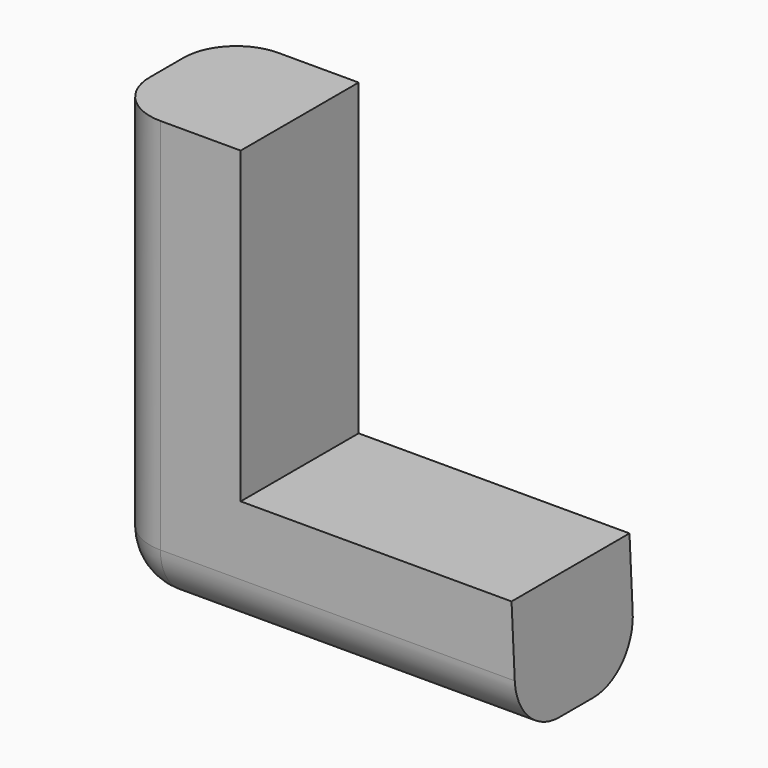
from build123d import *

# Parameters (mm, degrees)
F1_DEPTH = 7.112
F2_R     = 2.54
F3_R     = 2.54


with BuildPart() as f1:
    # F0 (on Front) → F1 (new body)
    with BuildSketch(Plane.XZ):
        Polygon((-28.863836, -17.969469), (-9.111056, -17.969469), (-9.385372, -12.106972), (-22.452589, -12.106972), (-22.452589, 2.791757), (-28.863836, 2.791757), align=None)
    extrude(amount=F1_DEPTH)

    # F2
    f2_edges = [f1.edges().sort_by_distance(p)[0] for p in [
        (-28.863836, -7.112, -7.588856),
    ]]
    fillet(f2_edges, radius=F2_R)

    # F3
    f3_edges = [f1.edges().sort_by_distance(p)[0] for p in [
        (-28.863836, 0, -7.588856),
        (-18.987446, 0, -17.969469),
        (-17.717446, -7.112, -17.969469),
    ]]
    fillet(f3_edges, radius=F3_R)


solid = f1.part
